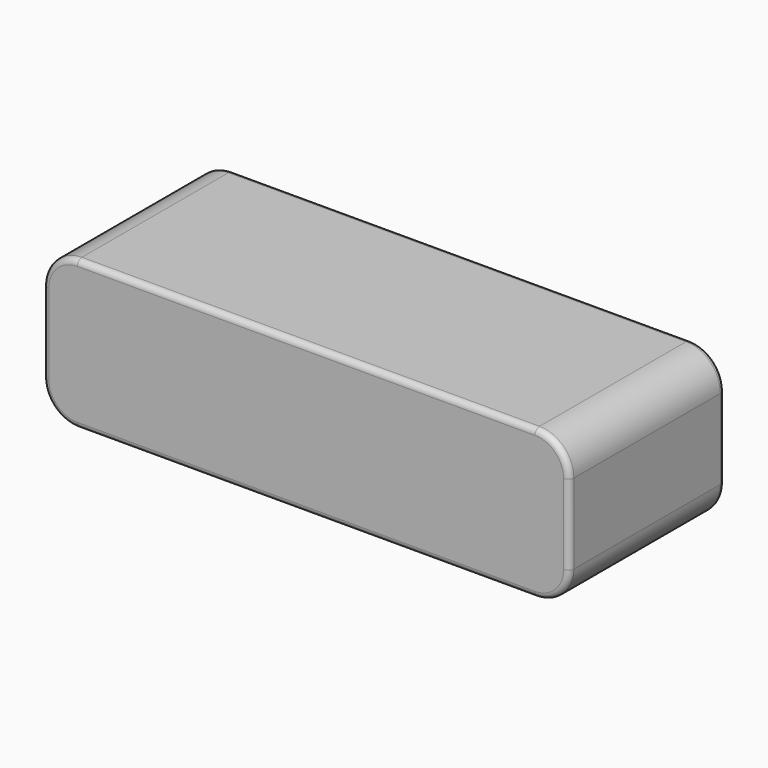
from build123d import *

# Parameters (mm, degrees)
F0_W     = 17
F0_H     = 13
F1_DEPTH = 46
F2_R     = 3
F3_R     = 0.5


with BuildPart() as f1:
    # F0 (on Right) → F1 (new body)
    with BuildSketch(Plane.YZ):
        with Locations((8.5, -6.5)):
            Rectangle(F0_W, F0_H)
    extrude(amount=F1_DEPTH)

    # F2
    f2_edges = [f1.edges().sort_by_distance(p)[0] for p in [
        (46, 8.5, 0),
        (46, 8.5, -13),
        (0, 8.5, 0),
        (0, 8.5, -13),
    ]]
    fillet(f2_edges, radius=F2_R)

    # F3
    f3_edges = [f1.edges().sort_by_distance(p)[0] for p in [
        (23, 0, 0),
        (23, 17, 0),
    ]]
    fillet(f3_edges, radius=F3_R)


solid = f1.part
